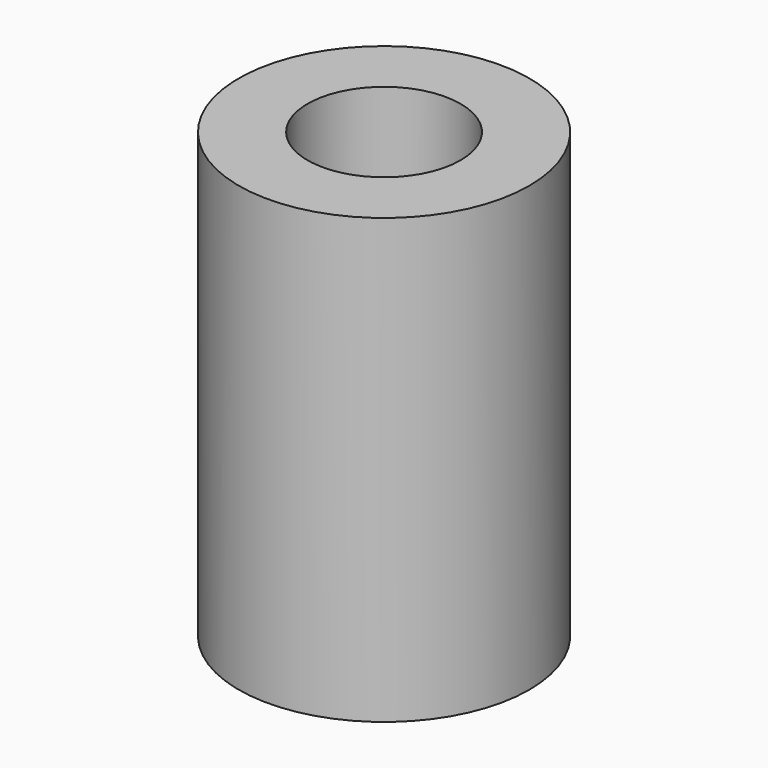
from build123d import *

# Parameters (mm, degrees)
SKETCH_R   = 9.5
SKETCH_R_2 = 5
PAD_DEPTH  = 29


with BuildPart() as part:
    # Sketch → Pad (new body)
    with BuildSketch(Plane.XY):
        Circle(SKETCH_R)
        Circle(SKETCH_R_2, mode=Mode.SUBTRACT)
    extrude(amount=PAD_DEPTH)


solid = part.part
